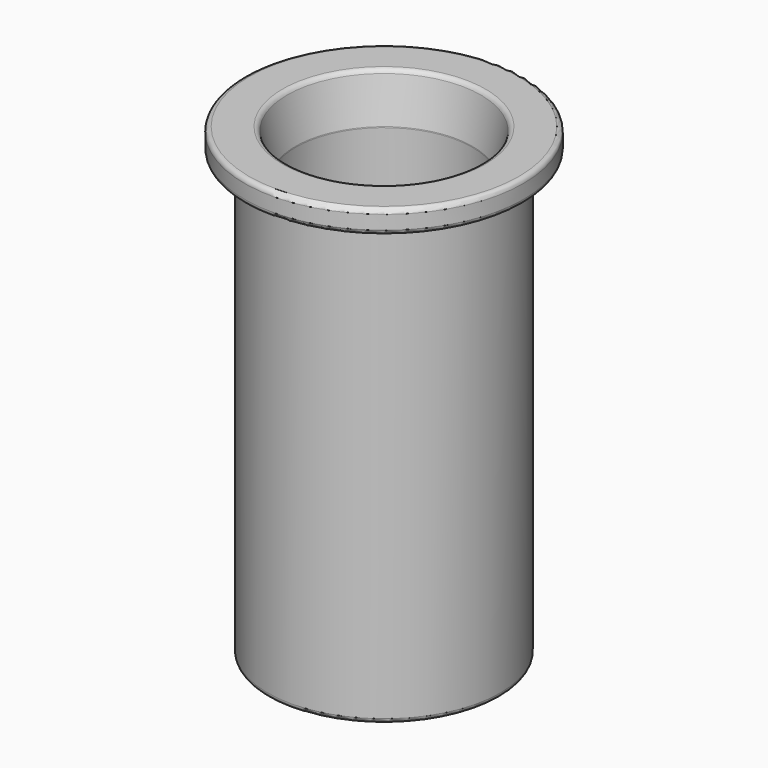
from build123d import *

# Parameters (mm, degrees)
F0_R     = 30
F0_R_2   = 25
F0_R_3   = 19
F2_DEPTH = 5
F3_DEPTH = 95
F4_SIZE2 = 10
F4_SIZE  = 2
F5_R     = 1


with BuildPart() as f2:
    # F0 (on Top) → F2 (new body, through all)
    with BuildSketch(Plane.XY):
        Circle(F0_R)
        Circle(F0_R_2, mode=Mode.SUBTRACT)
        Circle(F0_R_2)
        Circle(F0_R_3, mode=Mode.SUBTRACT)
    extrude(amount=F2_DEPTH)

    # F0 (on Top) → F3 (join, through all)
    with BuildSketch(Plane.XY):
        Circle(F0_R_2)
        Circle(F0_R_3, mode=Mode.SUBTRACT)
    extrude(amount=-F3_DEPTH)

    # F4
    f4_edges = [f2.edges().sort_by_distance(p)[0] for p in [
        (-19, 0, 5),
    ]]
    f4_side = f2.faces().sort_by_distance((-19.848528, 0, 5))[0]
    chamfer(f4_edges, length=F4_SIZE, length2=F4_SIZE2, reference=f4_side)

    # F5
    f5_edges = [f2.edges().sort_by_distance(p)[0] for p in [
        (-30, 0, 5),
        (-30, 0, 0),
        (-25, 0, -95),
        (-19, 0, -95),
        (-21, 0, 5),
        (-19, 0, -5),
    ]]
    fillet(f5_edges, radius=F5_R)


solid = f2.part
